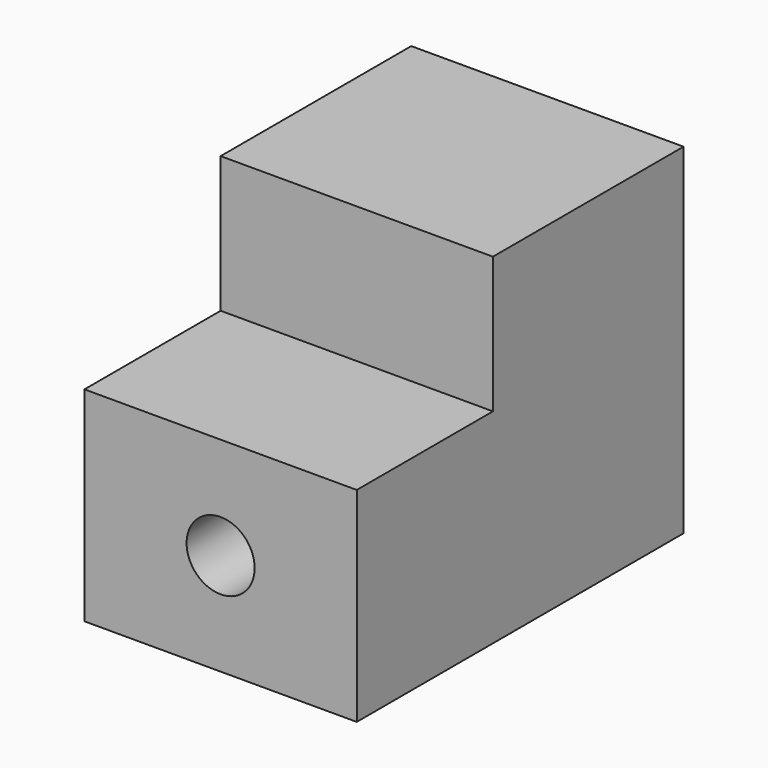
from build123d import *

# Parameters (mm, degrees)
F0_W     = 101.6
F0_H     = 152.4
F1_DEPTH = 127
F2_W     = 63.5
F2_H     = 50.8
F3_DEPTH = 101.6
F4_R     = 12.7
F5_DEPTH = 152.4


with BuildPart() as f1:
    # F0 (on Top) → F1 (new body)
    with BuildSketch(Plane.XY):
        with Locations((34.088279, 36.755844)):
            Rectangle(F0_W, F0_H)
    extrude(amount=F1_DEPTH)

    # F2 (on face) → F3 (cut)
    with BuildSketch(Plane(origin=(-16.711721, 0, 0), x_dir=(0, -1, 0), z_dir=(-1, 0, 0))):
        with Locations((7.694156, 101.6)):
            Rectangle(F2_W, F2_H)
    extrude(amount=-F3_DEPTH, mode=Mode.SUBTRACT)

    # F4 (on face) → F5 (cut)
    with BuildSketch(Plane.XZ.offset(39.444156)):
        with Locations((34.088279, 38.1)):
            Circle(F4_R)
    extrude(amount=-F5_DEPTH, mode=Mode.SUBTRACT)


solid = f1.part
